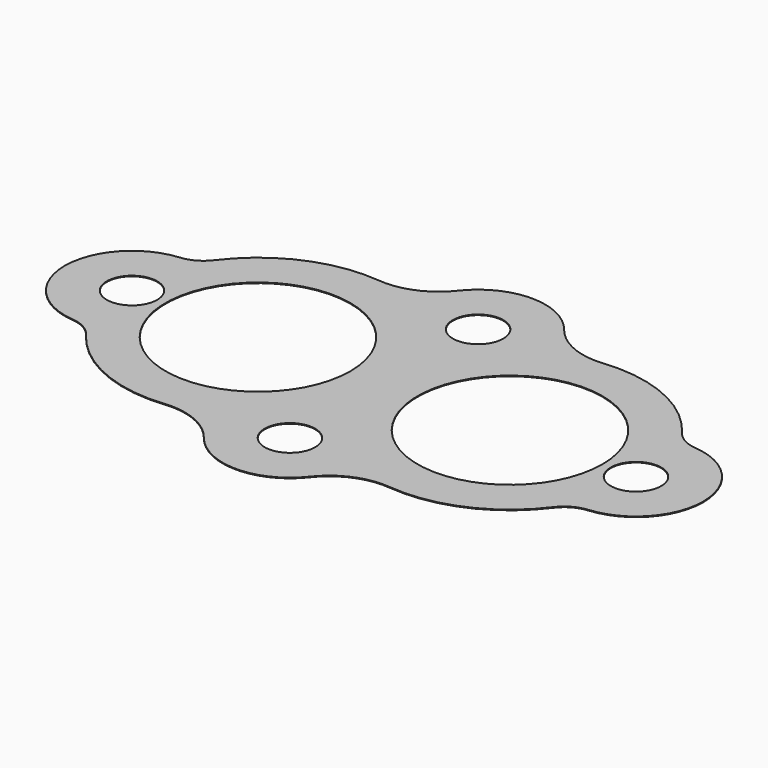
from build123d import *

# Parameters (mm, degrees)
F0_R     = 9.525
F0_R_2   = 34.925
F1_DEPTH = 0.254


with BuildPart() as f1:
    # F0 (on Top) → F1 (new body)
    with BuildSketch(Plane.XY):
        with BuildLine():
            ThreePointArc((-97.437222, 25.305653), (-120.65, 0), (-97.437222, -25.305653))
            ThreePointArc((-97.437222, -25.305653), (-92.35152, -26.863161), (-88.349667, -30.366783))
            ThreePointArc((-88.349667, -30.366783), (-68.091776, -46.494635), (-42.516305, -50.54247))
            ThreePointArc((-42.516305, -50.54247), (-30.01656, -52.441733), (-19.980979, -60.131852))
            ThreePointArc((-19.980979, -60.131852), (0, -69.85), (19.980979, -60.131852))
            ThreePointArc((19.980979, -60.131852), (30.01656, -52.441733), (42.516305, -50.54247))
            ThreePointArc((42.516305, -50.54247), (68.091776, -46.494635), (88.349667, -30.366783))
            ThreePointArc((88.349667, -30.366783), (92.35152, -26.863161), (97.437222, -25.305653))
            ThreePointArc((97.437222, -25.305653), (120.65, 0), (97.437222, 25.305653))
            ThreePointArc((97.437222, 25.305653), (92.35152, 26.863161), (88.349667, 30.366783))
            ThreePointArc((88.349667, 30.366783), (68.091776, 46.494635), (42.516305, 50.54247))
            ThreePointArc((42.516305, 50.54247), (30.01656, 52.441733), (19.980979, 60.131852))
            ThreePointArc((19.980979, 60.131852), (0, 69.85), (-19.980979, 60.131852))
            ThreePointArc((-19.980979, 60.131852), (-30.01656, 52.441733), (-42.516305, 50.54247))
            ThreePointArc((-42.516305, 50.54247), (-68.091776, 46.494635), (-88.349667, 30.366783))
            ThreePointArc((-88.349667, 30.366783), (-92.35152, 26.863161), (-97.437222, 25.305653))
        make_face()
        with Locations((0, -44.45)):
            Circle(F0_R, mode=Mode.SUBTRACT)
        with Locations((-95.25, 0)):
            Circle(F0_R, mode=Mode.SUBTRACT)
        with Locations((-47.625, 0)):
            Circle(F0_R_2, mode=Mode.SUBTRACT)
        with Locations((47.625, 0)):
            Circle(F0_R_2, mode=Mode.SUBTRACT)
        with Locations((95.25, 0)):
            Circle(F0_R, mode=Mode.SUBTRACT)
        with Locations((0, 44.45)):
            Circle(F0_R, mode=Mode.SUBTRACT)
    extrude(amount=F1_DEPTH)


solid = f1.part
